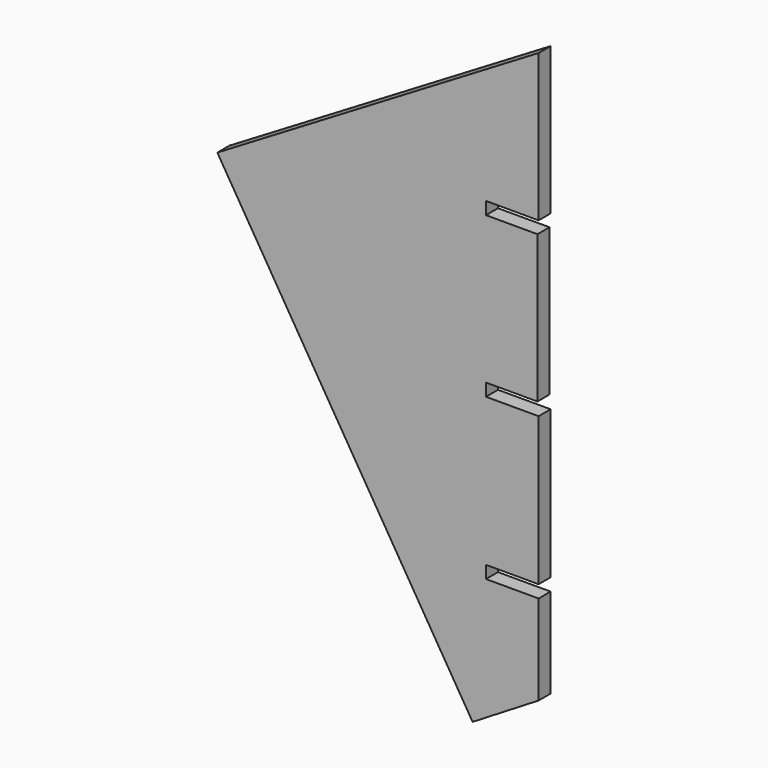
from build123d import *

# Parameters (mm, degrees)
F1_DEPTH = 6


with BuildPart() as f1:
    # F0 (on Front) → F1 (new body)
    with BuildSketch(Plane.XZ):
        Polygon((0, 22.677863), (0, 58.5), (-21, 58.5), (-21, 63.5), (0, 63.5), (0, 63.75), (0, 122.5), (-21, 122.5), (-21, 127.5), (-0.465679, 127.5), (-0.465679, 173.380539), (-128.12072, 173.380539), (-26.326123, 6.608847), align=None)
        Polygon((0, 250), (-128.12072, 173.380539), (-0.465679, 173.380539), (-0.465679, 186.25), (-21, 186.25), (-21, 191.25), (0, 191.25), align=None)
    extrude(amount=F1_DEPTH)


solid = f1.part
